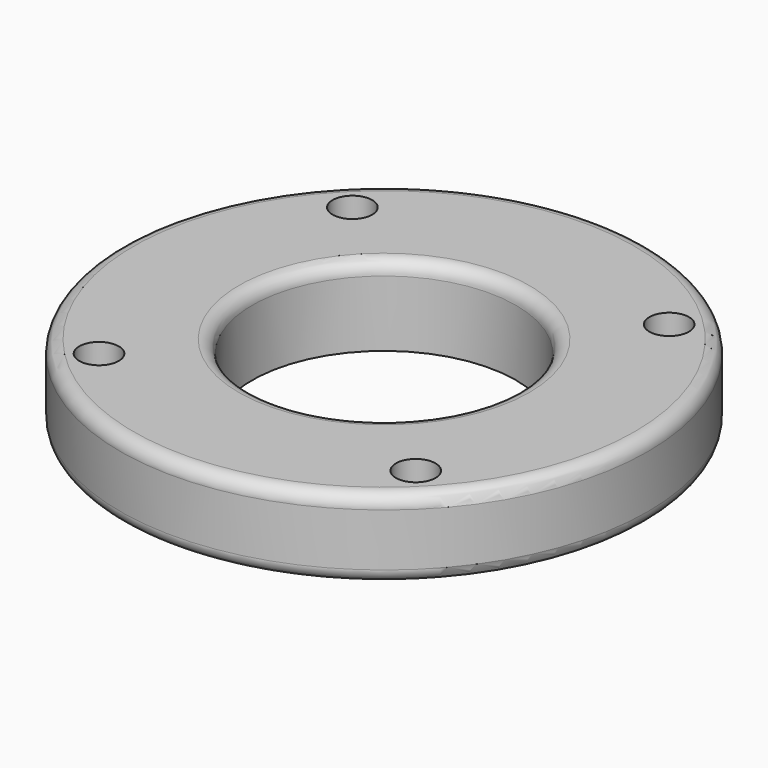
from build123d import *

# Parameters (mm, degrees)
CYLINDER019_R     = 1.5
CYLINDER019_DEPTH = 10
ARRAY_X_COUNT     = 2
ARRAY_X_PITCH     = 24
ARRAY_Y_COUNT     = 2
ARRAY_Y_PITCH     = 24
CYLINDER014_R     = 10
CYLINDER014_DEPTH = 6
CYLINDER018_R     = 20
CYLINDER018_DEPTH = 6
FILLET_R          = 1


with BuildPart() as bolt_hole_array:
    # Cylinder019 → Cylinder019 (new body)
    with BuildSketch(Plane.XY):
        Circle(CYLINDER019_R)
    extrude(amount=CYLINDER019_DEPTH)

    # Array X: bolt hole array ×2


with BuildPart() as bolt_hole_array_1:
    add(bolt_hole_array.part)
    with Locations(*[(i * ARRAY_X_PITCH, 0, 0) for i in range(1, ARRAY_X_COUNT)]):
        add(bolt_hole_array.part)

    # Array Y: bolt hole array ×2


with BuildPart() as bolt_hole_array_2:
    add(bolt_hole_array_1.part)
    with Locations(*[(0, i * ARRAY_Y_PITCH, 0) for i in range(1, ARRAY_Y_COUNT)]):
        add(bolt_hole_array_1.part)


with BuildPart() as bolt_hole_array_3:
    # Array placement: moved
    add(bolt_hole_array_2.part.moved(Location((-12, -12, 0))))


with BuildPart() as hole_fusion:
    # Cylinder014 → Cylinder014 (new body)
    with BuildSketch(Plane.XY):
        Circle(CYLINDER014_R)
    extrude(amount=CYLINDER014_DEPTH)

    # Fusion003: union bolt hole array
    add(bolt_hole_array_3.part)


with BuildPart() as fillet_body:
    # Cylinder018 → Cylinder018 (new body)
    with BuildSketch(Plane.XY):
        Circle(CYLINDER018_R)
    extrude(amount=CYLINDER018_DEPTH)

    # Cut003: cut hole fusion
    add(hole_fusion.part, mode=Mode.SUBTRACT)

    # Fillet
    fillet_edges = [fillet_body.edges().sort_by_distance(p)[0] for p in [
        (-20, 0, 6),
        (-20, 0, 0),
        (-10, 0, 6),
    ]]
    fillet(fillet_edges, radius=FILLET_R)


solid = fillet_body.part
